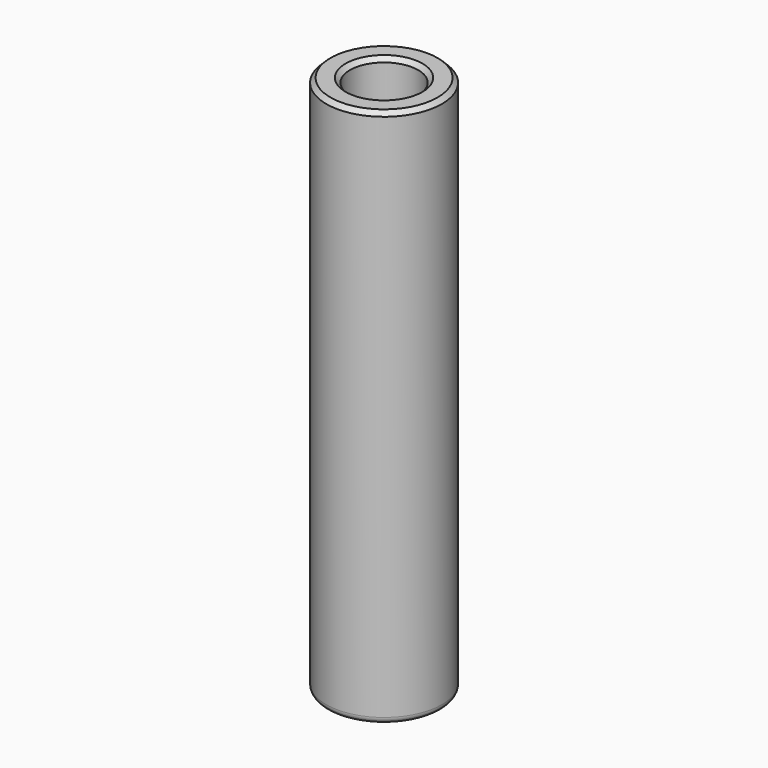
from build123d import *

# Parameters (mm, degrees)
F0_R     = 3.4036
F1_DEPTH = 31.75
F2_R     = 2.0066
F3_DEPTH = 23.114
F7_R     = 0.381
F8_SIZE  = 0.254


with BuildPart() as f1:
    # F0 (on Top) → F1 (new body)
    with BuildSketch(Plane.XY):
        Circle(F0_R)
    extrude(amount=F1_DEPTH)

    # F2 (on face) → F3 (cut)
    with BuildSketch(Plane.XY.offset(31.75)):
        Circle(F2_R)
    extrude(amount=-F3_DEPTH, mode=Mode.SUBTRACT)

    # F5 (on offset) → F6 (revolve, cut)
    with BuildSketch(Plane(origin=(0, 0, -0.508), x_dir=(1, 0, 0), z_dir=(0, 0, -1))):
        with BuildLine():
            ThreePointArc((0, 1.651), (-1.651, 0), (0, -1.651))
            Line((0, -1.651), (0, 1.651))
        make_face()
    revolve(axis=Axis((0, -0.148408, -0.508), (0, -1, 0)), mode=Mode.SUBTRACT)

    # F7
    f7_edges = [f1.edges().sort_by_distance(p)[0] for p in [
        (-3.4036, 0, 0),
    ]]
    fillet(f7_edges, radius=F7_R)

    # F8
    f8_edges = [f1.edges().sort_by_distance(p)[0] for p in [
        (-3.4036, 0, 31.75),
        (-2.0066, 0, 31.75),
    ]]
    chamfer(f8_edges, length=F8_SIZE)


solid = f1.part
